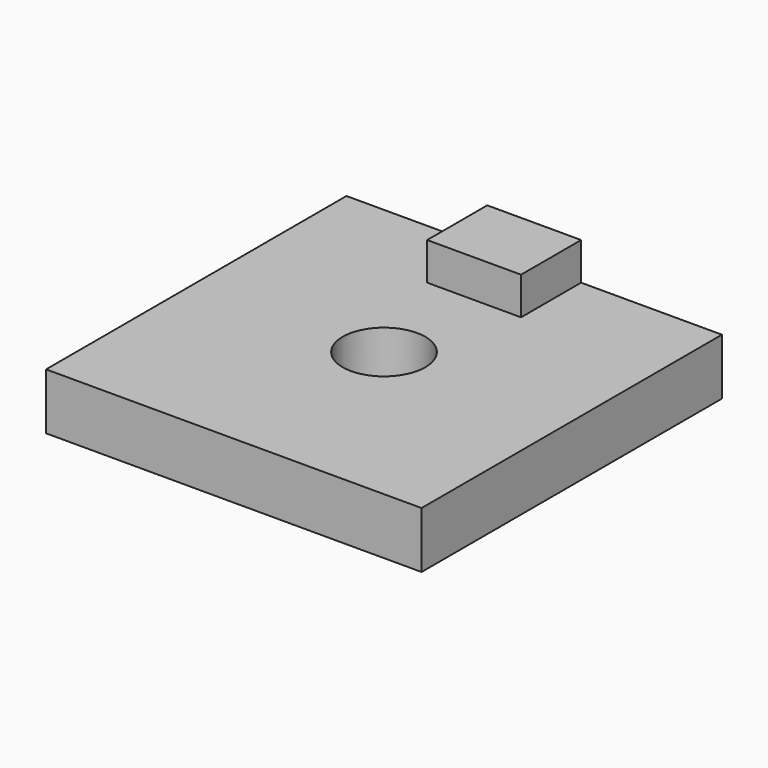
from build123d import *

# Parameters (mm, degrees)
F0_W     = 20
F0_H     = 20
F0_R     = 2.2
F1_DEPTH = 3
F2_W     = 5
F2_H     = 4
F3_DEPTH = 2


with BuildPart() as f1:
    # F0 (on Top) → F1 (new body)
    with BuildSketch(Plane.XY):
        Rectangle(F0_W, F0_H)
        Circle(F0_R, mode=Mode.SUBTRACT)
    extrude(amount=F1_DEPTH)

    # F2 (on face) → F3 (join)
    with BuildSketch(Plane.XY.offset(3)):
        with Locations((0, 8)):
            Rectangle(F2_W, F2_H)
    extrude(amount=F3_DEPTH)


solid = f1.part
